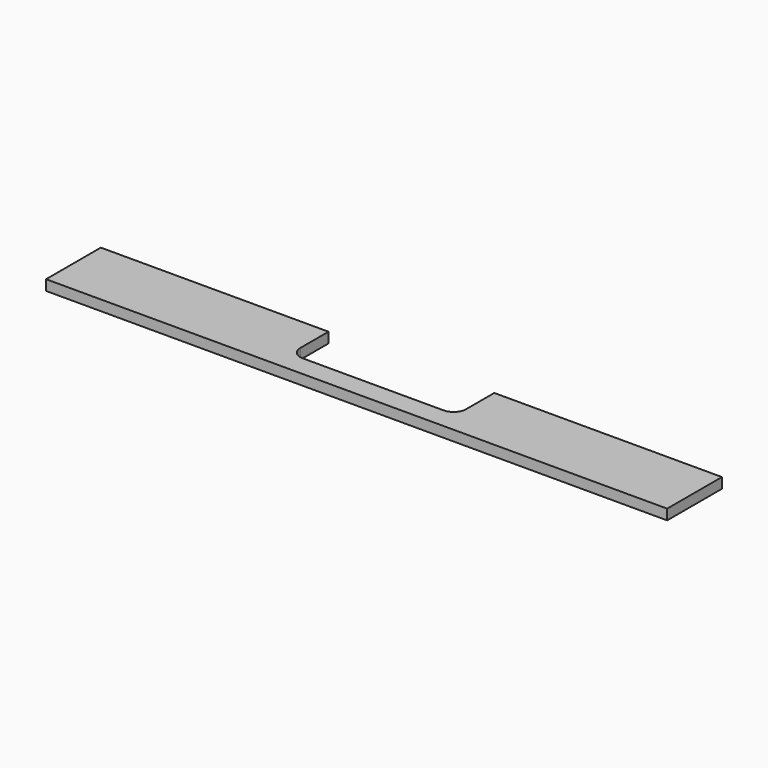
from build123d import *

# Parameters (mm, degrees)
F0_W     = 1498.6
F0_H     = 165.1
F1_DEPTH = 25
F3_DEPTH = 25


with BuildPart() as f1:
    # F0 (on Top) → F1 (new body)
    with BuildSketch(Plane.XY):
        Rectangle(F0_W, F0_H)
    extrude(amount=F1_DEPTH)

    # F2 (on face) → F3 (cut, through all)
    with BuildSketch(Plane.XY.offset(25)):
        with BuildLine():
            Line((200, 82.55), (-200, 82.55))
            Line((-200, 82.55), (-200, -2.55))
            ThreePointArc((-200, -2.55), (-191.213203, -23.763203), (-170, -32.55))
            Line((-170, -32.55), (0, -32.55))
            Line((0, -32.55), (170, -32.55))
            ThreePointArc((170, -32.55), (191.213203, -23.763203), (200, -2.55))
            Line((200, -2.55), (200, 82.55))
        make_face()
    extrude(amount=-F3_DEPTH, mode=Mode.SUBTRACT)


with BuildPart() as f4_1:
    # F4: copy of F1
    add(f1.part)


solid = Compound([f1.part, f4_1.part])
